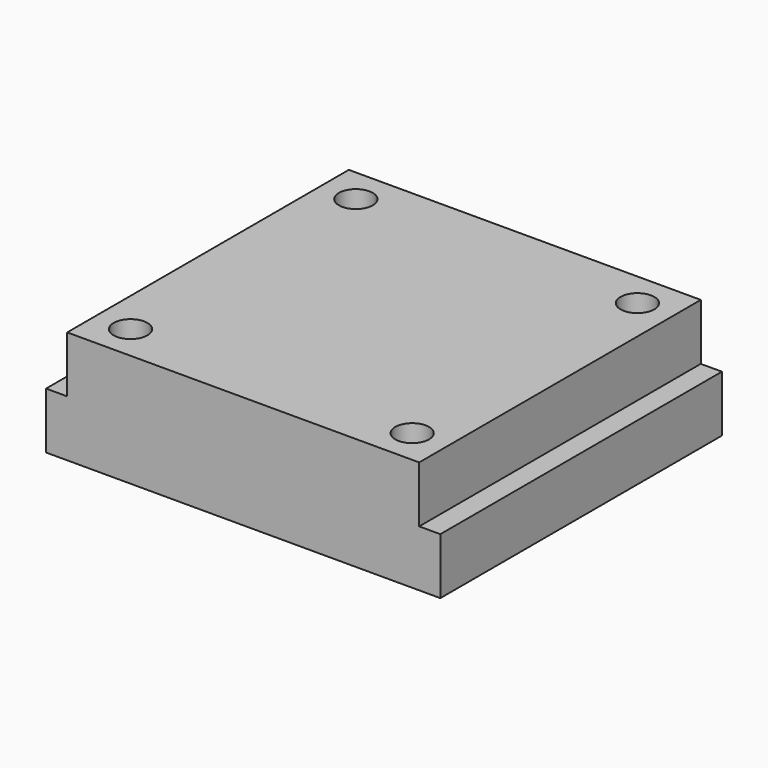
from build123d import *

# Parameters (mm, degrees)
F0_W     = 28
F0_H     = 25
F1_DEPTH = 4
F2_W     = 25
F2_H     = 25
F3_DEPTH = 4
F5_D     = 2.4


with BuildPart() as f1:
    # F0 (on Top) → F1 (new body)
    with BuildSketch(Plane.XY):
        Rectangle(F0_W, F0_H)
    extrude(amount=-F1_DEPTH)

    # F2 (on Top) → F3 (join)
    with BuildSketch(Plane.XY):
        Rectangle(F2_W, F2_H)
    extrude(amount=F3_DEPTH)

    # F5 (through all)
    with Locations(Plane.XY.offset(4)):
        with Locations((-10, 10), (10, 10), (10, -10), (-10, -10)):
            Hole(F5_D / 2)


solid = f1.part
